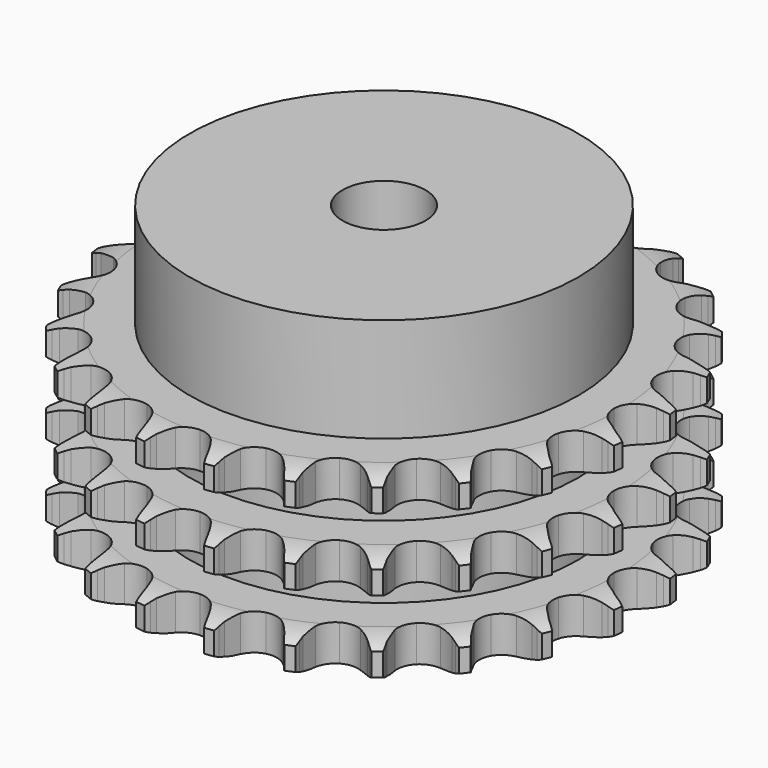
from build123d import *

# Parameters (mm, degrees)
PAD_DEPTH         = 34.9
SKETCH001_R       = 37.5
PAD001_DEPTH      = 55
SKETCH002_R       = 8
POCKET_DEPTH      = 0.001
POCKET_DEPTH_BACK = 55.001


with BuildPart() as part:
    # Sprocket → Pad (new body)
    with BuildSketch(Plane.XY):
        with BuildLine():
            ThreePointArc((-6.844882, 51.992044), (-5.975969, 50.915436), (-5.336613, 49.688521))
            Line((-5.336613, 49.688521), (-4.923413, 48.657188))
            ThreePointArc((-4.923413, 48.657188), (-4.2633, 47.288632), (-3.422824, 46.022815))
            ThreePointArc((-3.422824, 46.022815), (-1.908199, 44.779794), (0, 44.334865))
            ThreePointArc((0, 44.334865), (1.908199, 44.779794), (3.422824, 46.022815))
            ThreePointArc((3.422824, 46.022815), (4.2633, 47.288632), (4.923413, 48.657188))
            Line((4.923413, 48.657188), (5.336613, 49.688521))
            ThreePointArc((5.336613, 49.688521), (5.975969, 50.915436), (6.844882, 51.992044))
            ThreePointArc((6.844882, 51.992044), (7.405542, 50.727229), (7.705563, 49.376643))
            Line((7.705563, 49.376643), (7.837755, 48.273507))
            ThreePointArc((7.837755, 48.273507), (8.121167, 46.780734), (8.605387, 45.340517))
            ThreePointArc((8.605387, 45.340517), (9.746685, 43.747838), (11.474707, 42.824191))
            ThreePointArc((11.474707, 42.824191), (13.433043, 42.760081), (15.217775, 43.568733))
            Line((15.217775, 43.568733), (17.349059, 45.724961))
            ThreePointArc((17.349059, 45.724961), (17.670973, 46.177907), (18.015108, 46.614209))
            ThreePointArc((18.015108, 46.614209), (18.950227, 47.63384), (20.06818, 48.448872))
            ThreePointArc((20.06818, 48.448872), (20.282377, 47.082045), (20.222618, 45.699828))
            Line((20.222618, 45.699828), (20.064793, 44.600067))
            ThreePointArc((20.064793, 44.600067), (19.95219, 43.084807), (20.047155, 41.568338))
            ThreePointArc((20.047155, 41.568338), (20.737348, 39.734539), (22.167432, 38.395119))
            ThreePointArc((22.167432, 38.395119), (24.042446, 37.82634), (25.97566, 38.145515))
            Line((25.97566, 38.145515), (28.592395, 39.676654))
            ThreePointArc((28.592395, 39.676654), (29.020571, 40.030848), (29.465903, 40.363215))
            ThreePointArc((29.465903, 40.363215), (30.633059, 41.106077), (31.923864, 41.603989))
            ThreePointArc((31.923864, 41.603989), (31.777002, 40.228298), (31.361535, 38.908646))
            Line((31.361535, 38.908646), (30.924449, 37.887206))
            ThreePointArc((30.924449, 37.887206), (30.423504, 36.452721), (30.122742, 34.963346))
            ThreePointArc((30.122742, 34.963346), (30.314796, 33.013397), (31.349483, 31.349483))
            ThreePointArc((31.349483, 31.349483), (33.013397, 30.314796), (34.963346, 30.122742))
            Line((34.963346, 30.122742), (37.887206, 30.924449))
            ThreePointArc((37.887206, 30.924449), (38.392465, 31.155754), (38.908646, 31.361535))
            ThreePointArc((38.908646, 31.361535), (40.228298, 31.777002), (41.603989, 31.923864))
            ThreePointArc((41.603989, 31.923864), (41.106077, 30.633059), (40.363215, 29.465903))
            Line((40.363215, 29.465903), (39.676654, 28.592395))
            ThreePointArc((39.676654, 28.592395), (38.821506, 27.336442), (38.145515, 25.97566))
            ThreePointArc((38.145515, 25.97566), (37.82634, 24.042446), (38.395119, 22.167432))
            ThreePointArc((38.395119, 22.167432), (39.734539, 20.737348), (41.568338, 20.047155))
            Line((41.568338, 20.047155), (44.600067, 20.064793))
            ThreePointArc((44.600067, 20.064793), (45.147976, 20.157446), (45.699828, 20.222618))
            ThreePointArc((45.699828, 20.222618), (47.082045, 20.282377), (48.448872, 20.06818))
            ThreePointArc((48.448872, 20.06818), (47.63384, 18.950227), (46.614209, 18.015108))
            Line((46.614209, 18.015108), (45.724961, 17.349059))
            ThreePointArc((45.724961, 17.349059), (44.573888, 16.35723), (43.568733, 15.217775))
            ThreePointArc((43.568733, 15.217775), (42.760081, 13.433043), (42.824191, 11.474707))
            ThreePointArc((42.824191, 11.474707), (43.747838, 9.746685), (45.340517, 8.605387))
            Line((45.340517, 8.605387), (48.273507, 7.837755))
            ThreePointArc((48.273507, 7.837755), (48.826727, 7.785442), (49.376643, 7.705563))
            ThreePointArc((49.376643, 7.705563), (50.727229, 7.405542), (51.992044, 6.844882))
            ThreePointArc((51.992044, 6.844882), (50.915436, 5.975969), (49.688521, 5.336613))
            Line((49.688521, 5.336613), (48.657188, 4.923413))
            ThreePointArc((48.657188, 4.923413), (47.288632, 4.2633), (46.022815, 3.422824))
            ThreePointArc((46.022815, 3.422824), (44.779794, 1.908199), (44.334865, 0))
            ThreePointArc((44.334865, 0), (44.779794, -1.908199), (46.022815, -3.422824))
            Line((46.022815, -3.422824), (48.657188, -4.923413))
            ThreePointArc((48.657188, -4.923413), (49.178017, -5.117128), (49.688521, -5.336613))
            ThreePointArc((49.688521, -5.336613), (50.915436, -5.975969), (51.992044, -6.844882))
            ThreePointArc((51.992044, -6.844882), (50.727229, -7.405542), (49.376643, -7.705563))
            Line((49.376643, -7.705563), (48.273507, -7.837755))
            ThreePointArc((48.273507, -7.837755), (46.780734, -8.121167), (45.340517, -8.605387))
            ThreePointArc((45.340517, -8.605387), (43.747838, -9.746685), (42.824191, -11.474707))
            ThreePointArc((42.824191, -11.474707), (42.760081, -13.433043), (43.568733, -15.217775))
            Line((43.568733, -15.217775), (45.724961, -17.349059))
            ThreePointArc((45.724961, -17.349059), (46.177907, -17.670973), (46.614209, -18.015108))
            ThreePointArc((46.614209, -18.015108), (47.63384, -18.950227), (48.448872, -20.06818))
            ThreePointArc((48.448872, -20.06818), (47.082045, -20.282377), (45.699828, -20.222618))
            Line((45.699828, -20.222618), (44.600067, -20.064793))
            ThreePointArc((44.600067, -20.064793), (43.084807, -19.95219), (41.568338, -20.047155))
            ThreePointArc((41.568338, -20.047155), (39.734539, -20.737348), (38.395119, -22.167432))
            ThreePointArc((38.395119, -22.167432), (37.82634, -24.042446), (38.145515, -25.97566))
            Line((38.145515, -25.97566), (39.676654, -28.592395))
            ThreePointArc((39.676654, -28.592395), (40.030848, -29.020571), (40.363215, -29.465903))
            ThreePointArc((40.363215, -29.465903), (41.106077, -30.633059), (41.603989, -31.923864))
            ThreePointArc((41.603989, -31.923864), (40.228298, -31.777002), (38.908646, -31.361535))
            Line((38.908646, -31.361535), (37.887206, -30.924449))
            ThreePointArc((37.887206, -30.924449), (36.452721, -30.423504), (34.963346, -30.122742))
            ThreePointArc((34.963346, -30.122742), (33.013397, -30.314796), (31.349483, -31.349483))
            ThreePointArc((31.349483, -31.349483), (30.314796, -33.013397), (30.122742, -34.963346))
            Line((30.122742, -34.963346), (30.924449, -37.887206))
            ThreePointArc((30.924449, -37.887206), (31.155754, -38.392465), (31.361535, -38.908646))
            ThreePointArc((31.361535, -38.908646), (31.777002, -40.228298), (31.923864, -41.603989))
            ThreePointArc((31.923864, -41.603989), (30.633059, -41.106077), (29.465903, -40.363215))
            Line((29.465903, -40.363215), (28.592395, -39.676654))
            ThreePointArc((28.592395, -39.676654), (27.336442, -38.821506), (25.97566, -38.145515))
            ThreePointArc((25.97566, -38.145515), (24.042446, -37.82634), (22.167432, -38.395119))
            ThreePointArc((22.167432, -38.395119), (20.737348, -39.734539), (20.047155, -41.568338))
            Line((20.047155, -41.568338), (20.064793, -44.600067))
            ThreePointArc((20.064793, -44.600067), (20.157446, -45.147976), (20.222618, -45.699828))
            ThreePointArc((20.222618, -45.699828), (20.282377, -47.082045), (20.06818, -48.448872))
            ThreePointArc((20.06818, -48.448872), (18.950227, -47.63384), (18.015108, -46.614209))
            Line((18.015108, -46.614209), (17.349059, -45.724961))
            ThreePointArc((17.349059, -45.724961), (16.35723, -44.573888), (15.217775, -43.568733))
            ThreePointArc((15.217775, -43.568733), (13.433043, -42.760081), (11.474707, -42.824191))
            ThreePointArc((11.474707, -42.824191), (9.746685, -43.747838), (8.605387, -45.340517))
            Line((8.605387, -45.340517), (7.837755, -48.273507))
            ThreePointArc((7.837755, -48.273507), (7.785442, -48.826727), (7.705563, -49.376643))
            ThreePointArc((7.705563, -49.376643), (7.405542, -50.727229), (6.844882, -51.992044))
            ThreePointArc((6.844882, -51.992044), (5.975969, -50.915436), (5.336613, -49.688521))
            Line((5.336613, -49.688521), (4.923413, -48.657188))
            ThreePointArc((4.923413, -48.657188), (4.2633, -47.288632), (3.422824, -46.022815))
            ThreePointArc((3.422824, -46.022815), (1.908199, -44.779794), (0, -44.334865))
            ThreePointArc((0, -44.334865), (-1.908199, -44.779794), (-3.422824, -46.022815))
            Line((-3.422824, -46.022815), (-4.923413, -48.657188))
            ThreePointArc((-4.923413, -48.657188), (-5.117128, -49.178017), (-5.336613, -49.688521))
            ThreePointArc((-5.336613, -49.688521), (-5.975969, -50.915436), (-6.844882, -51.992044))
            ThreePointArc((-6.844882, -51.992044), (-7.405542, -50.727229), (-7.705563, -49.376643))
            Line((-7.705563, -49.376643), (-7.837755, -48.273507))
            ThreePointArc((-7.837755, -48.273507), (-8.121167, -46.780734), (-8.605387, -45.340517))
            ThreePointArc((-8.605387, -45.340517), (-9.746685, -43.747838), (-11.474707, -42.824191))
            ThreePointArc((-11.474707, -42.824191), (-13.433043, -42.760081), (-15.217775, -43.568733))
            Line((-15.217775, -43.568733), (-17.349059, -45.724961))
            ThreePointArc((-17.349059, -45.724961), (-17.670973, -46.177907), (-18.015108, -46.614209))
            ThreePointArc((-18.015108, -46.614209), (-18.950227, -47.63384), (-20.06818, -48.448872))
            ThreePointArc((-20.06818, -48.448872), (-20.282377, -47.082045), (-20.222618, -45.699828))
            Line((-20.222618, -45.699828), (-20.064793, -44.600067))
            ThreePointArc((-20.064793, -44.600067), (-19.95219, -43.084807), (-20.047155, -41.568338))
            ThreePointArc((-20.047155, -41.568338), (-20.737348, -39.734539), (-22.167432, -38.395119))
            ThreePointArc((-22.167432, -38.395119), (-24.042446, -37.82634), (-25.97566, -38.145515))
            Line((-25.97566, -38.145515), (-28.592395, -39.676654))
            ThreePointArc((-28.592395, -39.676654), (-29.020571, -40.030848), (-29.465903, -40.363215))
            ThreePointArc((-29.465903, -40.363215), (-30.633059, -41.106077), (-31.923864, -41.603989))
            ThreePointArc((-31.923864, -41.603989), (-31.777002, -40.228298), (-31.361535, -38.908646))
            Line((-31.361535, -38.908646), (-30.924449, -37.887206))
            ThreePointArc((-30.924449, -37.887206), (-30.423504, -36.452721), (-30.122742, -34.963346))
            ThreePointArc((-30.122742, -34.963346), (-30.314796, -33.013397), (-31.349483, -31.349483))
            ThreePointArc((-31.349483, -31.349483), (-33.013397, -30.314796), (-34.963346, -30.122742))
            Line((-34.963346, -30.122742), (-37.887206, -30.924449))
            ThreePointArc((-37.887206, -30.924449), (-38.392465, -31.155754), (-38.908646, -31.361535))
            ThreePointArc((-38.908646, -31.361535), (-40.228298, -31.777002), (-41.603989, -31.923864))
            ThreePointArc((-41.603989, -31.923864), (-41.106077, -30.633059), (-40.363215, -29.465903))
            Line((-40.363215, -29.465903), (-39.676654, -28.592395))
            ThreePointArc((-39.676654, -28.592395), (-38.821506, -27.336442), (-38.145515, -25.97566))
            ThreePointArc((-38.145515, -25.97566), (-37.82634, -24.042446), (-38.395119, -22.167432))
            ThreePointArc((-38.395119, -22.167432), (-39.734539, -20.737348), (-41.568338, -20.047155))
            Line((-41.568338, -20.047155), (-44.600067, -20.064793))
            ThreePointArc((-44.600067, -20.064793), (-45.147976, -20.157446), (-45.699828, -20.222618))
            ThreePointArc((-45.699828, -20.222618), (-47.082045, -20.282377), (-48.448872, -20.06818))
            ThreePointArc((-48.448872, -20.06818), (-47.63384, -18.950227), (-46.614209, -18.015108))
            Line((-46.614209, -18.015108), (-45.724961, -17.349059))
            ThreePointArc((-45.724961, -17.349059), (-44.573888, -16.35723), (-43.568733, -15.217775))
            ThreePointArc((-43.568733, -15.217775), (-42.760081, -13.433043), (-42.824191, -11.474707))
            ThreePointArc((-42.824191, -11.474707), (-43.747838, -9.746685), (-45.340517, -8.605387))
            Line((-45.340517, -8.605387), (-48.273507, -7.837755))
            ThreePointArc((-48.273507, -7.837755), (-48.826727, -7.785442), (-49.376643, -7.705563))
            ThreePointArc((-49.376643, -7.705563), (-50.727229, -7.405542), (-51.992044, -6.844882))
            ThreePointArc((-51.992044, -6.844882), (-50.915436, -5.975969), (-49.688521, -5.336613))
            Line((-49.688521, -5.336613), (-48.657188, -4.923413))
            ThreePointArc((-48.657188, -4.923413), (-47.288632, -4.2633), (-46.022815, -3.422824))
            ThreePointArc((-46.022815, -3.422824), (-44.779794, -1.908199), (-44.334865, 0))
            ThreePointArc((-44.334865, 0), (-44.779794, 1.908199), (-46.022815, 3.422824))
            Line((-46.022815, 3.422824), (-48.657188, 4.923413))
            ThreePointArc((-48.657188, 4.923413), (-49.178017, 5.117128), (-49.688521, 5.336613))
            ThreePointArc((-49.688521, 5.336613), (-50.915436, 5.975969), (-51.992044, 6.844882))
            ThreePointArc((-51.992044, 6.844882), (-50.727229, 7.405542), (-49.376643, 7.705563))
            Line((-49.376643, 7.705563), (-48.273507, 7.837755))
            ThreePointArc((-48.273507, 7.837755), (-46.780734, 8.121167), (-45.340517, 8.605387))
            ThreePointArc((-45.340517, 8.605387), (-43.747838, 9.746685), (-42.824191, 11.474707))
            ThreePointArc((-42.824191, 11.474707), (-42.760081, 13.433043), (-43.568733, 15.217775))
            Line((-43.568733, 15.217775), (-45.724961, 17.349059))
            ThreePointArc((-45.724961, 17.349059), (-46.177907, 17.670973), (-46.614209, 18.015108))
            ThreePointArc((-46.614209, 18.015108), (-47.63384, 18.950227), (-48.448872, 20.06818))
            ThreePointArc((-48.448872, 20.06818), (-47.082045, 20.282377), (-45.699828, 20.222618))
            Line((-45.699828, 20.222618), (-44.600067, 20.064793))
            ThreePointArc((-44.600067, 20.064793), (-43.084807, 19.95219), (-41.568338, 20.047155))
            ThreePointArc((-41.568338, 20.047155), (-39.734539, 20.737348), (-38.395119, 22.167432))
            ThreePointArc((-38.395119, 22.167432), (-37.82634, 24.042446), (-38.145515, 25.97566))
            Line((-38.145515, 25.97566), (-39.676654, 28.592395))
            ThreePointArc((-39.676654, 28.592395), (-40.030848, 29.020571), (-40.363215, 29.465903))
            ThreePointArc((-40.363215, 29.465903), (-41.106077, 30.633059), (-41.603989, 31.923864))
            ThreePointArc((-41.603989, 31.923864), (-40.228298, 31.777002), (-38.908646, 31.361535))
            Line((-38.908646, 31.361535), (-37.887206, 30.924449))
            ThreePointArc((-37.887206, 30.924449), (-36.452721, 30.423504), (-34.963346, 30.122742))
            ThreePointArc((-34.963346, 30.122742), (-33.013397, 30.314796), (-31.349483, 31.349483))
            ThreePointArc((-31.349483, 31.349483), (-30.314796, 33.013397), (-30.122742, 34.963346))
            Line((-30.122742, 34.963346), (-30.924449, 37.887206))
            ThreePointArc((-30.924449, 37.887206), (-31.155754, 38.392465), (-31.361535, 38.908646))
            ThreePointArc((-31.361535, 38.908646), (-31.777002, 40.228298), (-31.923864, 41.603989))
            ThreePointArc((-31.923864, 41.603989), (-30.633059, 41.106077), (-29.465903, 40.363215))
            Line((-29.465903, 40.363215), (-28.592395, 39.676654))
            ThreePointArc((-28.592395, 39.676654), (-27.336442, 38.821506), (-25.97566, 38.145515))
            ThreePointArc((-25.97566, 38.145515), (-24.042446, 37.82634), (-22.167432, 38.395119))
            ThreePointArc((-22.167432, 38.395119), (-20.737348, 39.734539), (-20.047155, 41.568338))
            Line((-20.047155, 41.568338), (-20.064793, 44.600067))
            ThreePointArc((-20.064793, 44.600067), (-20.157446, 45.147976), (-20.222618, 45.699828))
            ThreePointArc((-20.222618, 45.699828), (-20.282377, 47.082045), (-20.06818, 48.448872))
            ThreePointArc((-20.06818, 48.448872), (-18.950227, 47.63384), (-18.015108, 46.614209))
            Line((-18.015108, 46.614209), (-17.349059, 45.724961))
            ThreePointArc((-17.349059, 45.724961), (-16.35723, 44.573888), (-15.217775, 43.568733))
            ThreePointArc((-15.217775, 43.568733), (-13.433043, 42.760081), (-11.474707, 42.824191))
            ThreePointArc((-11.474707, 42.824191), (-9.746685, 43.747838), (-8.605387, 45.340517))
            Line((-8.605387, 45.340517), (-7.837755, 48.273507))
            ThreePointArc((-7.837755, 48.273507), (-7.785442, 48.826727), (-7.705563, 49.376643))
            ThreePointArc((-7.705563, 49.376643), (-7.405542, 50.727229), (-6.844882, 51.992044))
        make_face()
    extrude(amount=PAD_DEPTH)

    # Sketch → Groove (revolve, cut)
    with BuildSketch(Plane.XZ):
        with BuildLine():
            ThreePointArc((45.233431, 0), (48.14032, 0.329167), (50.9, 1.3))
            Line((50.9, 1.3), (50.9, 5.7))
            ThreePointArc((50.9, 5.7), (48.14032, 6.670833), (45.233431, 7))
            Line((37.5, 7), (45.233431, 7))
            Line((37.5, 7), (37.5, 13.95))
            Line((37.5, 13.95), (45.233431, 13.95))
            ThreePointArc((45.233431, 13.95), (48.14032, 14.279167), (50.9, 15.25))
            Line((50.9, 19.65), (50.9, 15.25))
            ThreePointArc((50.9, 19.65), (48.14032, 20.620833), (45.233431, 20.95))
            Line((37.5, 20.95), (45.233431, 20.95))
            Line((37.5, 27.9), (37.5, 20.95))
            Line((45.233431, 27.9), (37.5, 27.9))
            ThreePointArc((45.233431, 27.9), (48.14032, 28.229167), (50.9, 29.2))
            Line((50.9, 29.2), (50.9, 33.6))
            ThreePointArc((50.9, 33.6), (48.14032, 34.570833), (45.233431, 34.9))
            Line((45.233431, 34.9), (60.9, 34.9))
            Line((60.9, 34.9), (60.9, 0))
            Line((45.233431, 0), (60.9, 0))
        make_face()
    revolve(axis=Axis((0, 0, 0), (0, 0, 1)), mode=Mode.SUBTRACT)

    # Sketch001 → Pad001 (join)
    with BuildSketch(Plane.XY):
        Circle(SKETCH001_R)
    extrude(amount=PAD001_DEPTH)

    # Sketch002 → Pocket (cut, two sides)
    with BuildSketch(Plane.XY) as pocket_sk:
        Circle(SKETCH002_R)
    extrude(amount=-POCKET_DEPTH, mode=Mode.SUBTRACT)
    extrude(pocket_sk.sketch, amount=POCKET_DEPTH_BACK, mode=Mode.SUBTRACT)


solid = part.part
